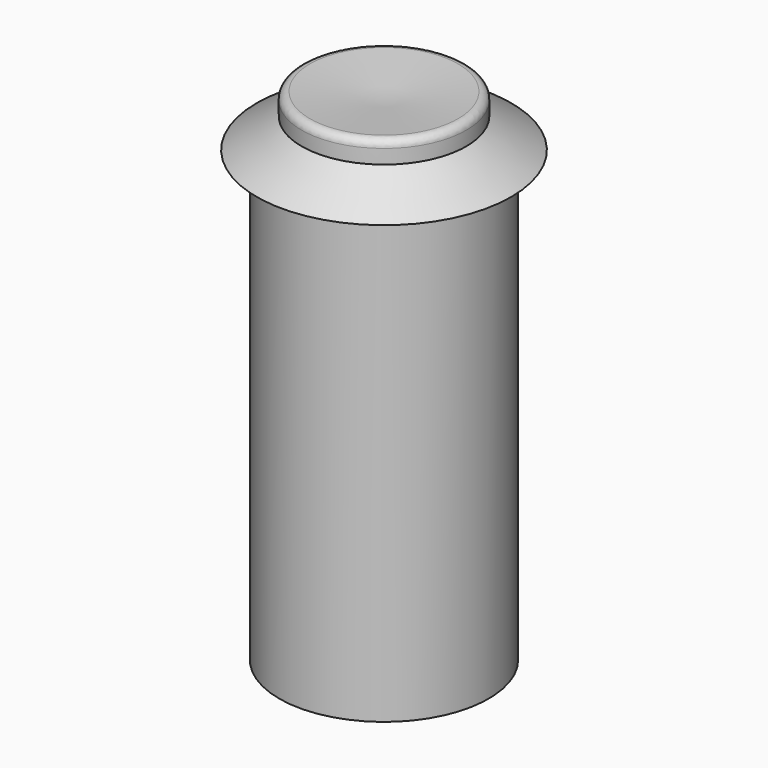
from build123d import *

# Parameters (mm, degrees)
F2_R = 1


with BuildPart() as f1:
    # F0 (on Front) → F1 (revolve)
    with BuildSketch(Plane.XZ):
        Polygon((-14, 0), (0, 0), (0, 66), (-11, 67), (-11, 64.00311), (-17, 60), (-14, 60), align=None)
    revolve(axis=Axis((0, 0, 33), (0, 0, -1)))

    # F2
    f2_edges = [f1.edges().sort_by_distance(p)[0] for p in [
        (11, 0, 67),
    ]]
    fillet(f2_edges, radius=F2_R)


solid = f1.part
